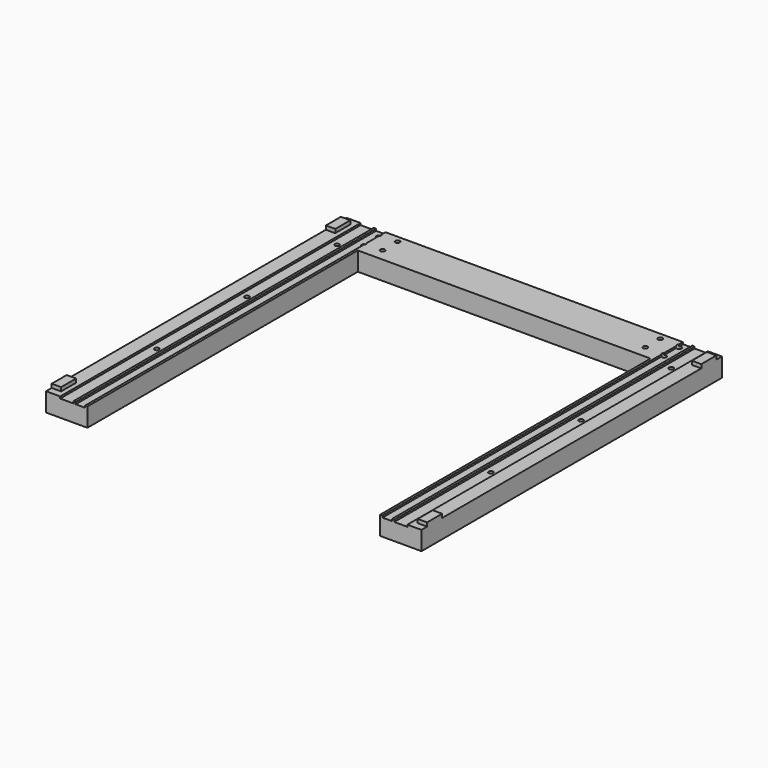
from build123d import *

# Parameters (mm, degrees)
SKETCH003_R     = 1.2
PAD001_DEPTH    = 10
POCKET002_DEPTH = 200
SKETCH011_R     = 1.2
POCKET008_DEPTH = 10
SKETCH030_W     = 5
SKETCH030_H     = 10
PAD012_DEPTH    = 2
SKETCH031_W     = 5
SKETCH031_H     = 1
POCKET018_DEPTH = 200


with BuildPart() as part:
    # Sketch003 → Pad001 (new body)
    with BuildSketch(Plane.XY):
        Polygon((-99.96, 100), (99.96, 100), (99.96, -100), (77.96, -100), (77.96, 80), (-77.96, 80), (-77.96, -100), (-99.96, -100), align=None)
        with Locations((-88.96, 80)):
            Circle(SKETCH003_R, mode=Mode.SUBTRACT)
        with Locations((88.96, 80)):
            Circle(SKETCH003_R, mode=Mode.SUBTRACT)
        with Locations((88.96, 20)):
            Circle(SKETCH003_R, mode=Mode.SUBTRACT)
        with Locations((-88.96, 20)):
            Circle(SKETCH003_R, mode=Mode.SUBTRACT)
        with Locations((-88.96, -40)):
            Circle(SKETCH003_R, mode=Mode.SUBTRACT)
        with Locations((88.96, -40)):
            Circle(SKETCH003_R, mode=Mode.SUBTRACT)
    extrude(amount=-PAD001_DEPTH)

    # Sketch004 (on Face6 of Pad001) → Pocket002 (cut)
    with BuildSketch(Plane(origin=(0, 100, 0), x_dir=(-1, 0, 0), z_dir=(0, 1, 0))):
        Polygon((-85.46, 0), (-85.46, -1), (-92.46, -1), (-92.46, 1), (92.46, 1), (92.46, -1), (85.46, -1), (85.46, 0), align=None)
    extrude(amount=-POCKET002_DEPTH, mode=Mode.SUBTRACT)

    # Sketch011 (on Face5 of Pocket002) → Pocket008 (cut)
    with BuildSketch(Plane(origin=(0, 0, -10), x_dir=(1, 0, 0), z_dir=(0, 0, -1))):
        with Locations((-79.96, -86.5)):
            Circle(SKETCH011_R)
        with Locations((-69.96, -86.5)):
            Circle(SKETCH011_R)
        with Locations((-69.96, -96.5)):
            Circle(SKETCH011_R)
        with Locations((-79.96, -96.5)):
            Circle(SKETCH011_R)
        with Locations((69.96, -86.5)):
            Circle(SKETCH011_R)
        with Locations((79.96, -86.5)):
            Circle(SKETCH011_R)
        with Locations((79.96, -96.5)):
            Circle(SKETCH011_R)
        with Locations((69.96, -96.5)):
            Circle(SKETCH011_R)
    extrude(amount=-POCKET008_DEPTH, mode=Mode.SUBTRACT)

    # Sketch030 (on Face4 of Pocket008) → Pad012 (join)
    with BuildSketch(Plane.XY):
        with Locations((97.46, 91.25)):
            Rectangle(SKETCH030_W, SKETCH030_H)
        with Locations((97.46, -91.25)):
            Rectangle(SKETCH030_W, SKETCH030_H)
        with Locations((-97.46, 91.25)):
            Rectangle(SKETCH030_W, SKETCH030_H)
        with Locations((-97.46, -91.25)):
            Rectangle(SKETCH030_W, SKETCH030_H)
    extrude(amount=PAD012_DEPTH)

    # Sketch031 (on Face2 of Pad012) → Pocket018 (cut)
    with BuildSketch(Plane.XZ.offset(100)):
        with Locations((81.71, -0.5)):
            Rectangle(SKETCH031_W, SKETCH031_H)
        with Locations((-81.71, -0.5)):
            Rectangle(SKETCH031_W, SKETCH031_H)
    extrude(amount=-POCKET018_DEPTH, mode=Mode.SUBTRACT)


with BuildPart() as part_1:
    # Body001 placement: moved
    add(part.part.moved(Location((0, 0, -34))))


solid = part_1.part
